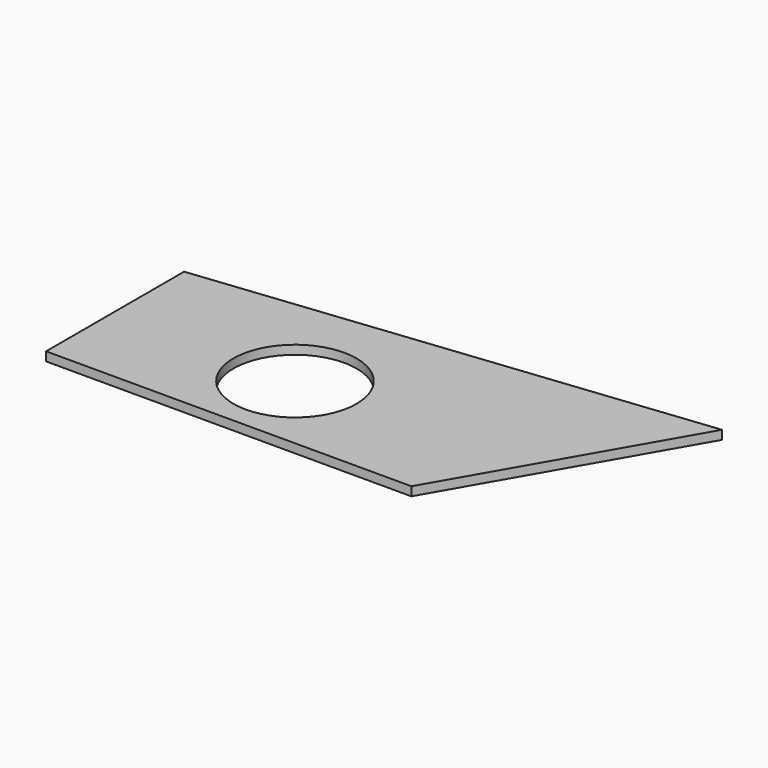
from build123d import *

# Parameters (mm, degrees)
PAD_DEPTH    = 2
SKETCH001_R  = 13.826638
POCKET_DEPTH = 2.001


with BuildPart() as part:
    # Sketch → Pad (new body)
    with BuildSketch(Plane.XY):
        Polygon((-68.67923, 16.835766), (42.490261, 28.861311), (13.361712, -21.913218), (-68.67923, -21.913218), align=None)
    extrude(amount=PAD_DEPTH)

    # Sketch001 → Pocket (cut, through all)
    with BuildSketch(Plane.XY.offset(2)):
        with Locations((-27.525139, -3.474047)):
            Circle(SKETCH001_R)
    extrude(amount=-POCKET_DEPTH, mode=Mode.SUBTRACT)


solid = part.part
